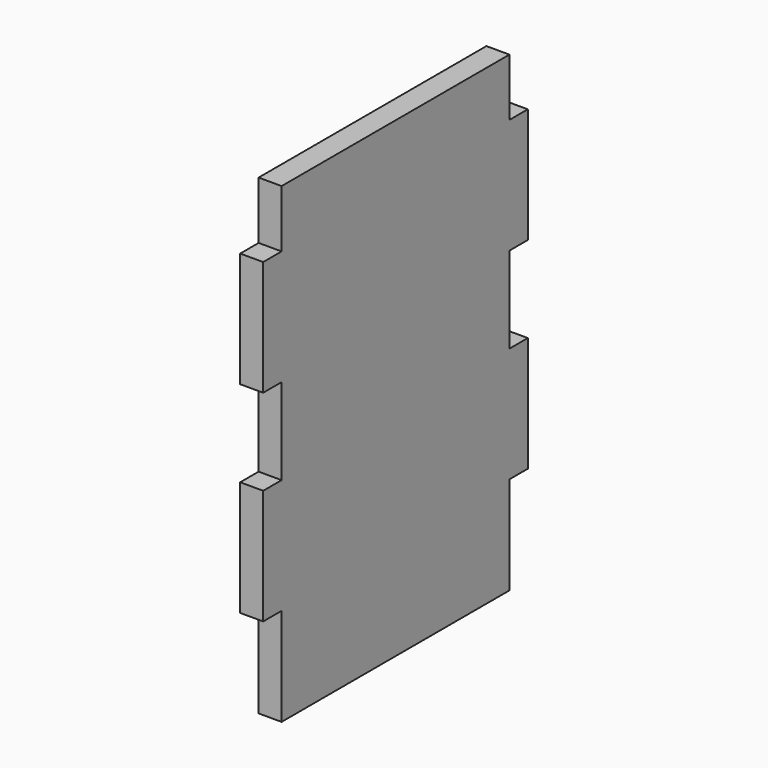
from build123d import *

# Parameters (mm, degrees)
F1_DEPTH = 4


with BuildPart() as f1:
    # F0 (on Right) → F1 (new body)
    with BuildSketch(Plane.YZ):
        Polygon((-25.5, -17.8), (-25.5, -34.8), (24, -34.8), (24, -17.8), (28, -17.8), (28, 2.2), (24, 2.2), (24, 17.2), (28, 17.2), (28, 37.2), (24, 37.2), (24, 47.2), (-25.5, 47.2), (-25.5, 37.2), (-29.5, 37.2), (-29.5, 17.2), (-25.5, 17.2), (-25.5, 2.2), (-29.5, 2.2), (-29.5, -17.8), align=None)
    extrude(amount=F1_DEPTH)


solid = f1.part
